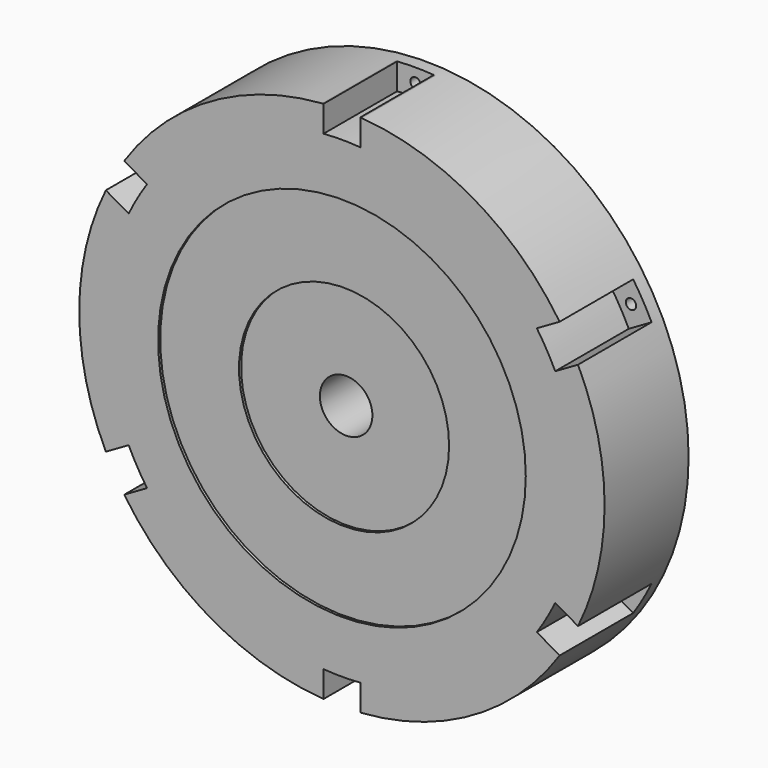
from build123d import *

# Parameters (mm, degrees)
F0_R      = 127
F1_DEPTH  = 50.8
F2_R      = 88.9
F3_DEPTH  = 1.27
F4_R      = 12.7
F5_DEPTH  = 50.8
F6_R      = 50.8
F7_DEPTH  = 1.27
F8_R      = 88.9
F8_R_2    = 38.1
F9_DEPTH  = 38.1
F10_SIZE  = 7.62
F11_R     = 5.08
F13_DEPTH = 44.45
F14_R     = 30.068591
F14_R_2   = 12.7
F15_DEPTH = 1.27
F17_DEPTH = 44.45
F18_R     = 2.5
F19_DEPTH = 25.4


with BuildPart() as f1:
    # F0 (on Front) → F1 (new body)
    with BuildSketch(Plane.XZ):
        Circle(F0_R)
    extrude(amount=F1_DEPTH)

    # F2 (on face) → F3 (cut)
    with BuildSketch(Plane.XZ.offset(50.8)):
        Circle(F2_R)
    extrude(amount=-F3_DEPTH, mode=Mode.SUBTRACT)

    # F4 (on face) → F5 (cut)
    with BuildSketch(Plane.XZ.offset(49.53)):
        Circle(F4_R)
    extrude(amount=-F5_DEPTH, mode=Mode.SUBTRACT)

    # F6 (on face) → F7 (cut)
    with BuildSketch(Plane.XZ.offset(49.53)):
        Circle(F6_R)
    extrude(amount=-F7_DEPTH, mode=Mode.SUBTRACT)

    # F8 (on face) → F9 (cut)
    with BuildSketch(Plane(origin=(0, 0, 0), x_dir=(-1, 0, 0), z_dir=(0, 1, 0))):
        Circle(F8_R)
        Circle(F8_R_2, mode=Mode.SUBTRACT)
    extrude(amount=-F9_DEPTH, mode=Mode.SUBTRACT)

    # F10
    f10_edges = [f1.edges().sort_by_distance(p)[0] for p in [
        (38.1, -38.1, 0),
    ]]
    chamfer(f10_edges, length=F10_SIZE)

    # F11
    f11_edges = [f1.edges().sort_by_distance(p)[0] for p in [
        (88.9, -38.1, 0),
    ]]
    fillet(f11_edges, radius=F11_R)

    # F12 (on face) → F13 (join)
    with BuildSketch(Plane.XZ.offset(50.8)):
        with BuildLine():
            ThreePointArc((-2.998611, 107.908345), (0, 107.95), (2.998611, 107.908345))
            ThreePointArc((2.998611, 107.908345), (7.602326, 109.70383), (9.525, 114.255894))
            Line((9.525, 114.255894), (9.525, 126.642309))
            ThreePointArc((9.525, 126.642309), (0, 127), (-9.525, 126.642309))
            Line((-9.525, 126.642309), (-9.525, 114.255894))
            ThreePointArc((-9.525, 114.255894), (-7.602326, 109.70383), (-2.998611, 107.908345))
        make_face()
        with BuildLine():
            Line((-74.055926, 87.52631), (-82.814443, 96.284827))
            ThreePointArc((-82.814443, 96.284827), (-89.802561, 89.802561), (-96.284827, 82.814443))
            Line((-96.284827, 82.814443), (-87.52631, 74.055926))
            ThreePointArc((-87.52631, 74.055926), (-82.947979, 72.196666), (-78.42306, 74.182384))
            ThreePointArc((-78.42306, 74.182384), (-76.332177, 76.332177), (-74.182384, 78.42306))
            ThreePointArc((-74.182384, 78.42306), (-72.196666, 82.947979), (-74.055926, 87.52631))
        make_face()
        with BuildLine():
            Line((-114.255894, 9.525), (-126.642309, 9.525))
            ThreePointArc((-126.642309, 9.525), (-127, 0), (-126.642309, -9.525))
            Line((-126.642309, -9.525), (-114.255894, -9.525))
            ThreePointArc((-114.255894, -9.525), (-109.70383, -7.602326), (-107.908345, -2.998611))
            ThreePointArc((-107.908345, -2.998611), (-107.95, 0), (-107.908345, 2.998611))
            ThreePointArc((-107.908345, 2.998611), (-109.70383, 7.602326), (-114.255894, 9.525))
        make_face()
        with BuildLine():
            Line((-87.52631, -74.055926), (-96.284827, -82.814443))
            ThreePointArc((-96.284827, -82.814443), (-89.802561, -89.802561), (-82.814443, -96.284827))
            Line((-82.814443, -96.284827), (-74.055926, -87.52631))
            ThreePointArc((-74.055926, -87.52631), (-72.196666, -82.947979), (-74.182384, -78.42306))
            ThreePointArc((-74.182384, -78.42306), (-76.332177, -76.332177), (-78.42306, -74.182384))
            ThreePointArc((-78.42306, -74.182384), (-82.947979, -72.196666), (-87.52631, -74.055926))
        make_face()
        with BuildLine():
            Line((-9.525, -114.255894), (-9.525, -126.642309))
            ThreePointArc((-9.525, -126.642309), (0, -127), (9.525, -126.642309))
            Line((9.525, -126.642309), (9.525, -114.255894))
            ThreePointArc((9.525, -114.255894), (7.602326, -109.70383), (2.998611, -107.908345))
            ThreePointArc((2.998611, -107.908345), (0, -107.95), (-2.998611, -107.908345))
            ThreePointArc((-2.998611, -107.908345), (-7.602326, -109.70383), (-9.525, -114.255894))
        make_face()
        with BuildLine():
            Line((74.055926, -87.52631), (82.814443, -96.284827))
            ThreePointArc((82.814443, -96.284827), (89.802561, -89.802561), (96.284827, -82.814443))
            Line((96.284827, -82.814443), (87.52631, -74.055926))
            ThreePointArc((87.52631, -74.055926), (82.947979, -72.196666), (78.42306, -74.182384))
            ThreePointArc((78.42306, -74.182384), (76.332177, -76.332177), (74.182384, -78.42306))
            ThreePointArc((74.182384, -78.42306), (72.196666, -82.947979), (74.055926, -87.52631))
        make_face()
        with BuildLine():
            Line((114.255894, -9.525), (126.642309, -9.525))
            ThreePointArc((126.642309, -9.525), (127, 0), (126.642309, 9.525))
            Line((126.642309, 9.525), (114.255894, 9.525))
            ThreePointArc((114.255894, 9.525), (109.70383, 7.602326), (107.908345, 2.998611))
            ThreePointArc((107.908345, 2.998611), (107.95, 0), (107.908345, -2.998611))
            ThreePointArc((107.908345, -2.998611), (109.70383, -7.602326), (114.255894, -9.525))
        make_face()
        with BuildLine():
            Line((87.52631, 74.055926), (96.284827, 82.814443))
            ThreePointArc((96.284827, 82.814443), (89.802561, 89.802561), (82.814443, 96.284827))
            Line((82.814443, 96.284827), (74.055926, 87.52631))
            ThreePointArc((74.055926, 87.52631), (72.196666, 82.947979), (74.182384, 78.42306))
            ThreePointArc((74.182384, 78.42306), (76.332177, 76.332177), (78.42306, 74.182384))
            ThreePointArc((78.42306, 74.182384), (82.947979, 72.196666), (87.52631, 74.055926))
        make_face()
    extrude(amount=-F13_DEPTH)

    # F14 (on face) → F15 (cut)
    with BuildSketch(Plane(origin=(0, 0, 0), x_dir=(-1, 0, 0), z_dir=(0, 1, 0))):
        Circle(F14_R)
        Circle(F14_R_2, mode=Mode.SUBTRACT)
    extrude(amount=-F15_DEPTH, mode=Mode.SUBTRACT)

    # F16 (on face) → F17 (cut)
    with BuildSketch(Plane.XZ.offset(50.8)):
        with BuildLine():
            ThreePointArc((-103.131845, 49.277911), (-98.986704, 57.15), (-94.241845, 64.675843))
            Line((-94.241845, 64.675843), (-105.270432, 71.0432))
            ThreePointArc((-105.270432, 71.0432), (-109.985226, 63.5), (-114.160432, 55.645268))
            Line((-114.160432, 55.645268), (-103.131845, 49.277911))
        make_face()
        with BuildLine():
            ThreePointArc((-94.241845, -64.675843), (-98.986704, -57.15), (-103.131845, -49.277911))
            Line((-103.131845, -49.277911), (-114.160432, -55.645268))
            ThreePointArc((-114.160432, -55.645268), (-109.985226, -63.5), (-105.270432, -71.0432))
            Line((-105.270432, -71.0432), (-94.241845, -64.675843))
        make_face()
        with BuildLine():
            ThreePointArc((8.89, -113.953753), (0, -114.3), (-8.89, -113.953753))
            Line((-8.89, -113.953753), (-8.89, -126.688468))
            ThreePointArc((-8.89, -126.688468), (0, -127), (8.89, -126.688468))
            Line((8.89, -126.688468), (8.89, -113.953753))
        make_face()
        with BuildLine():
            ThreePointArc((103.131845, -49.277911), (98.986704, -57.15), (94.241845, -64.675843))
            Line((94.241845, -64.675843), (105.270432, -71.0432))
            ThreePointArc((105.270432, -71.0432), (109.985226, -63.5), (114.160432, -55.645268))
            Line((114.160432, -55.645268), (103.131845, -49.277911))
        make_face()
        with BuildLine():
            ThreePointArc((94.241845, 64.675843), (98.986704, 57.15), (103.131845, 49.277911))
            Line((103.131845, 49.277911), (114.160432, 55.645268))
            ThreePointArc((114.160432, 55.645268), (109.985226, 63.5), (105.270432, 71.0432))
            Line((105.270432, 71.0432), (94.241845, 64.675843))
        make_face()
        with BuildLine():
            Line((8.89, 113.953753), (8.89, 126.688468))
            ThreePointArc((8.89, 126.688468), (0, 127), (-8.89, 126.688468))
            Line((-8.89, 126.688468), (-8.89, 113.953753))
            ThreePointArc((-8.89, 113.953753), (0, 114.3), (8.89, 113.953753))
        make_face()
    extrude(amount=-F17_DEPTH, mode=Mode.SUBTRACT)

    # F18 (on face) → F19 (cut)
    with BuildSketch(Plane.XZ.offset(6.35)):
        with Locations((0, 120.321111)):
            Circle(F18_R)
        with Locations((-104.201138, 60.160555)):
            Circle(F18_R)
        with Locations((-104.201138, -60.160555)):
            Circle(F18_R)
        with Locations((0, -120.321111)):
            Circle(F18_R)
        with Locations((104.201138, -60.160555)):
            Circle(F18_R)
        with Locations((104.201138, 60.160555)):
            Circle(F18_R)
    extrude(amount=-F19_DEPTH, mode=Mode.SUBTRACT)


solid = f1.part
